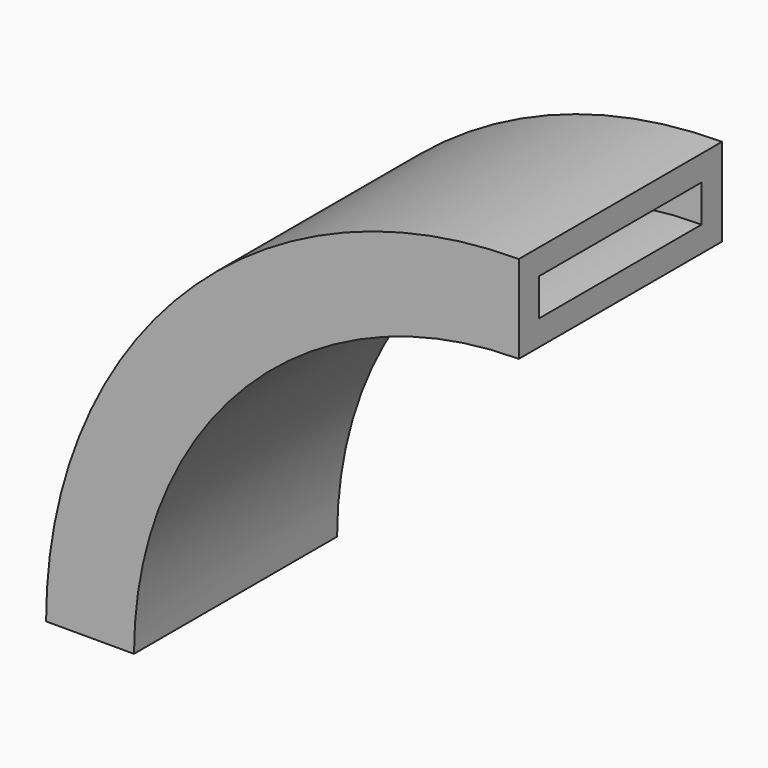
from build123d import *

# Parameters (mm, degrees)
F1_DEPTH = 25.4
F2_T     = -2.54


with BuildPart() as f1:
    # F0 (on Front) → F1 (new body)
    with BuildSketch(Plane.XZ):
        with BuildLine():
            Line((0, 38.503944), (0, 47.30061))
            ThreePointArc((0, 47.30061), (-33.446582, 33.446582), (-47.30061, 0))
            Line((-47.30061, 0), (-38.503944, 0))
            ThreePointArc((-38.503944, 0), (-27.2264, 27.2264), (0, 38.503944))
        make_face()
    extrude(amount=F1_DEPTH)

    # F2
    f2_openings = [f1.faces().sort_by_distance(p)[0] for p in [
        (0, -12.7, 42.902277),
    ]]
    offset(amount=F2_T, openings=f2_openings)


solid = f1.part
